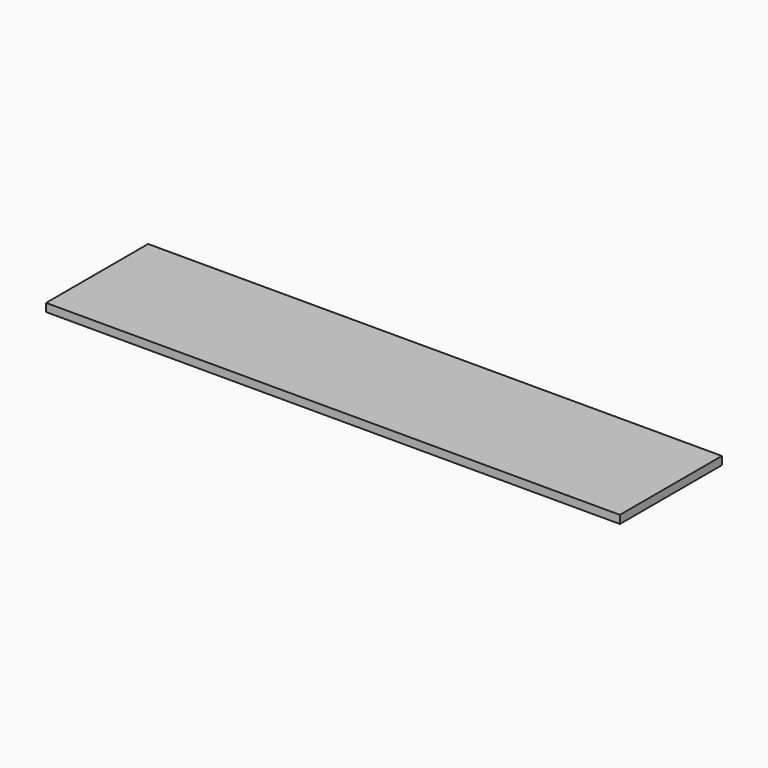
from build123d import *

# Parameters (mm, degrees)
SKETCH_W  = 450
SKETCH_H  = 100
PAD_DEPTH = 6.35


with BuildPart() as part:
    # Sketch → Pad (new body)
    with BuildSketch(Plane.XY):
        with Locations((225, 50)):
            Rectangle(SKETCH_W, SKETCH_H)
    extrude(amount=PAD_DEPTH)


solid = part.part
